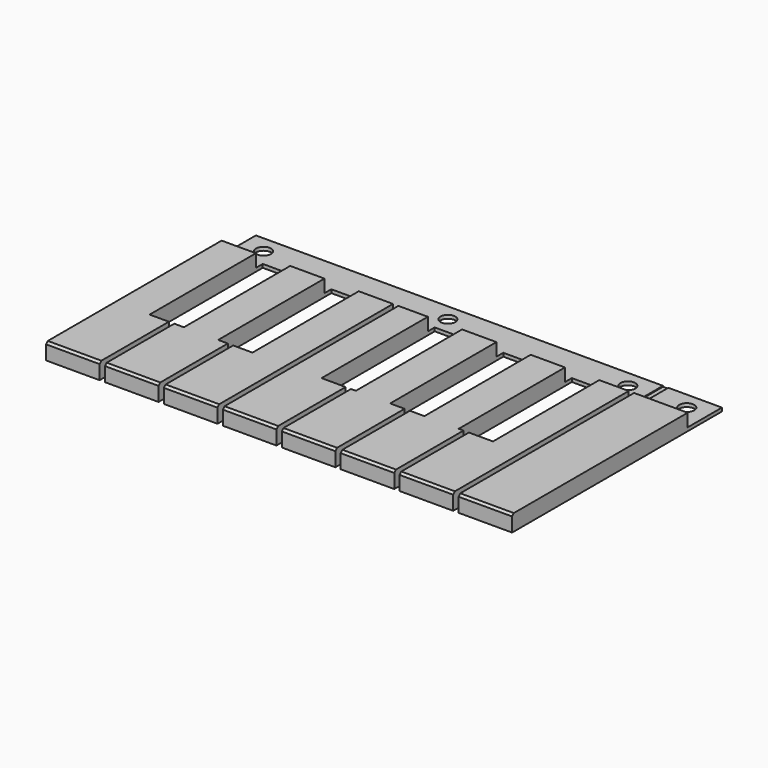
from build123d import *

# Parameters (mm, degrees)
PAD_DEPTH       = 0.81
SKETCH001_W     = 12.5
SKETCH001_H     = 51.2
PAD001_DEPTH    = 3
SKETCH002_R     = 1.75
POCKET_DEPTH    = 5
SKETCH003_W     = 1.25
SKETCH003_H     = 8
POCKET001_DEPTH = 0.2
CHAMFER_SIZE    = 0.5


with BuildPart() as part:
    # Sketch → Pad (new body)
    with BuildSketch(Plane.XY):
        Polygon((0, 0), (0, -53.2), (12.5, -53.2), (12.5, -33), (8, -33), (8, 0), (16, 0), (16, -33), (13.75, -33), (13.75, -53.2), (26.25, -53.2), (26.25, -33), (24, -33), (24, 0), (32, 0), (32, -33), (27.5, -33), (27.5, -53.2), (40, -53.2), (40, 0), (41.25, 0), (41.25, -53.2), (53.75, -53.2), (53.75, -33), (48.125, -33), (48.125, 0), (56.125, 0), (56.125, -33), (55, -33), (55, -53.2), (67.5, -53.2), (67.5, -33), (64.125, -33), (64.125, 0), (72.125, 0), (72.125, -33), (68.75, -33), (68.75, -53.2), (81.25, -53.2), (81.25, -33), (80.125, -33), (80.125, 0), (88.125, 0), (88.125, -33), (82.5, -33), (82.5, -53.2), (95, -53.2), (95, 0), (96.25, 0), (96.25, -53.2), (108.75, -53.2), (108.75, 0), (108.75, 8), (0, 8), align=None)
    extrude(amount=PAD_DEPTH)

    # Sketch001 (on Face56 of Pad) → Pad001 (join)
    with BuildSketch(Plane.XY.offset(0.81)):
        Polygon((0, -2), (0, -53.2), (12.5, -53.2), (12.5, -33), (8, -33), (8, -2), align=None)
        Polygon((16, -2), (16, -33), (13.75, -33), (13.75, -53.2), (26.25, -53.2), (26.25, -33), (24, -33), (24, -2), align=None)
        Polygon((32, -2), (32, -33), (27.5, -33), (27.5, -53.2), (40, -53.2), (40, -2), align=None)
        Polygon((41.25, -2), (41.25, -53.2), (53.75, -53.2), (53.75, -33), (48.125, -33), (48.125, -2), align=None)
        Polygon((56.125, -2), (56.125, -33), (55, -33), (55, -53.2), (67.5, -53.2), (67.5, -33), (64.125, -33), (64.125, -2), align=None)
        Polygon((72.125, -2), (72.125, -33), (68.75, -33), (68.75, -53.2), (81.25, -53.2), (81.25, -33), (80.125, -33), (80.125, -2), align=None)
        Polygon((88.125, -2), (88.125, -33), (82.5, -33), (82.5, -53.2), (95, -53.2), (95, -2), align=None)
        with Locations((102.5, -27.6)):
            Rectangle(SKETCH001_W, SKETCH001_H)
    extrude(amount=PAD001_DEPTH)

    # Sketch002 (on Face5 of Pad001) → Pocket (cut)
    with BuildSketch(Plane.XY.offset(0.81)):
        with Locations((5, 4)):
            Circle(SKETCH002_R)
        with Locations((48, 4)):
            Circle(SKETCH002_R)
        with Locations((90, 4)):
            Circle(SKETCH002_R)
        with Locations((103.75, 4)):
            Circle(SKETCH002_R)
    extrude(amount=-POCKET_DEPTH, mode=Mode.SUBTRACT)

    # Sketch003 (on Face5 of Pocket) → Pocket001 (cut)
    with BuildSketch(Plane.XY.offset(0.81)):
        with Locations((95.625, 4)):
            Rectangle(SKETCH003_W, SKETCH003_H)
    extrude(amount=-POCKET001_DEPTH, mode=Mode.SUBTRACT)

    # Chamfer
    chamfer_edges = [part.edges().sort_by_distance(p)[0] for p in [
        (6.25, -53.2, 3.81),
        (20, -53.2, 3.81),
        (33.75, -53.2, 3.81),
        (47.5, -53.2, 3.81),
        (61.25, -53.2, 3.81),
        (75, -53.2, 3.81),
        (88.75, -53.2, 3.81),
        (102.5, -53.2, 3.81),
    ]]
    chamfer(chamfer_edges, length=CHAMFER_SIZE)


solid = part.part
